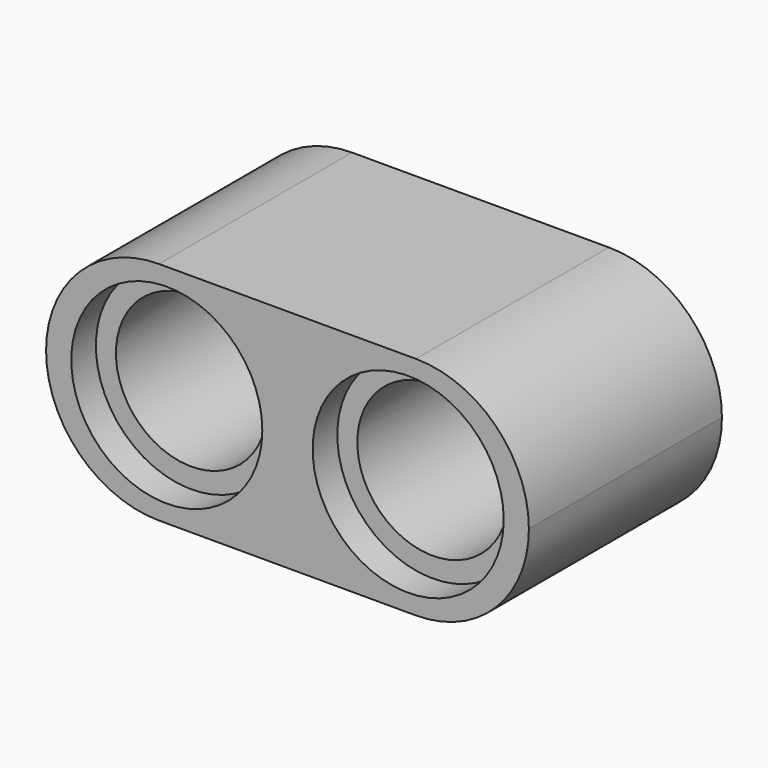
from build123d import *

# Parameters (mm, degrees)
F0_R     = 2.45
F1_DEPTH = 7.83
F2_DEPTH = 1
F3_R     = 3.1
F3_R_2   = 2.45
F4_DEPTH = 1


with BuildPart() as f1:
    # F0 (on Front) → F1 (new body)
    with BuildSketch(Plane.XZ):
        with BuildLine():
            ThreePointArc((-4.1537828283, 0), (-3.0803291813, -2.591546353), (-0.4887828283, -3.665))
            Line((-0.4887828283, -3.665), (7.8475505051, -3.665))
            ThreePointArc((7.8475505051, -3.665), (10.4390968581, -2.591546353), (11.5125505051, 0))
            ThreePointArc((11.5125505051, 0), (10.4390968581, 2.591546353), (7.8475505051, 3.665))
            Line((7.8475505051, 3.665), (3.6792171717, 3.665))
            Line((3.6792171717, 3.665), (-0.4887828283, 3.665))
            ThreePointArc((-0.4887828283, 3.665), (-3.0803291813, 2.591546353), (-4.1537828283, 0))
        make_face()
        with BuildLine():
            ThreePointArc((-1.8208784206, -2.665), (-3.3372828283, 0), (-1.8208784206, 2.665))
            ThreePointArc((-1.8208784206, 2.665), (-0.2372828283, 3.1), (1.346312764, 2.665))
            ThreePointArc((1.346312764, 2.665), (2.8627171717, 0), (1.346312764, -2.665))
            ThreePointArc((1.346312764, -2.665), (-0.2372828283, -3.1), (-1.8208784206, -2.665))
        make_face(mode=Mode.SUBTRACT)
        with BuildLine():
            ThreePointArc((6.0122882461, -2.665), (4.4958838384, 0), (6.0122882461, 2.665))
            ThreePointArc((6.0122882461, 2.665), (10.6958838384, 0), (6.0122882461, -2.665))
        make_face(mode=Mode.SUBTRACT)
        with BuildLine():
            ThreePointArc((1.346312764, 2.665), (-0.2372828283, 3.1), (-1.8208784206, 2.665))
            ThreePointArc((-1.8208784206, 2.665), (-3.3372828283, 0), (-1.8208784206, -2.665))
            ThreePointArc((-1.8208784206, -2.665), (-0.2372828283, -3.1), (1.346312764, -2.665))
            ThreePointArc((1.346312764, -2.665), (2.8627171717, 0), (1.346312764, 2.665))
        make_face()
        with Locations((-0.2372828283, 0)):
            Circle(F0_R, mode=Mode.SUBTRACT)
        with BuildLine():
            ThreePointArc((6.0122882461, -2.665), (10.6958838384, 0), (6.0122882461, 2.665))
            ThreePointArc((6.0122882461, 2.665), (4.4958838384, 0), (6.0122882461, -2.665))
        make_face()
        with Locations((7.5958838384, 0)):
            Circle(F0_R, mode=Mode.SUBTRACT)
    extrude(amount=F1_DEPTH)

    # F0 (on Front) → F2 (cut)
    with BuildSketch(Plane.XZ):
        with BuildLine():
            ThreePointArc((1.346312764, 2.665), (-0.2372828283, 3.1), (-1.8208784206, 2.665))
            ThreePointArc((-1.8208784206, 2.665), (-3.3372828283, 0), (-1.8208784206, -2.665))
            ThreePointArc((-1.8208784206, -2.665), (-0.2372828283, -3.1), (1.346312764, -2.665))
            ThreePointArc((1.346312764, -2.665), (2.8627171717, 0), (1.346312764, 2.665))
        make_face()
        with Locations((-0.2372828283, 0)):
            Circle(F0_R, mode=Mode.SUBTRACT)
        with BuildLine():
            ThreePointArc((6.0122882461, -2.665), (10.6958838384, 0), (6.0122882461, 2.665))
            ThreePointArc((6.0122882461, 2.665), (4.4958838384, 0), (6.0122882461, -2.665))
        make_face()
        with Locations((7.5958838384, 0)):
            Circle(F0_R, mode=Mode.SUBTRACT)
    extrude(amount=F2_DEPTH, mode=Mode.SUBTRACT)

    # F3 (on face) → F4 (cut)
    with BuildSketch(Plane.XZ.offset(7.83)):
        with Locations((-0.2372828283, 0)):
            Circle(F3_R)
        with Locations((-0.2372828283, 0)):
            Circle(F3_R_2, mode=Mode.SUBTRACT)
        with Locations((7.5958838384, 0)):
            Circle(F3_R)
        with Locations((7.5958838384, 0)):
            Circle(F3_R_2, mode=Mode.SUBTRACT)
    extrude(amount=-F4_DEPTH, mode=Mode.SUBTRACT)


solid = f1.part
